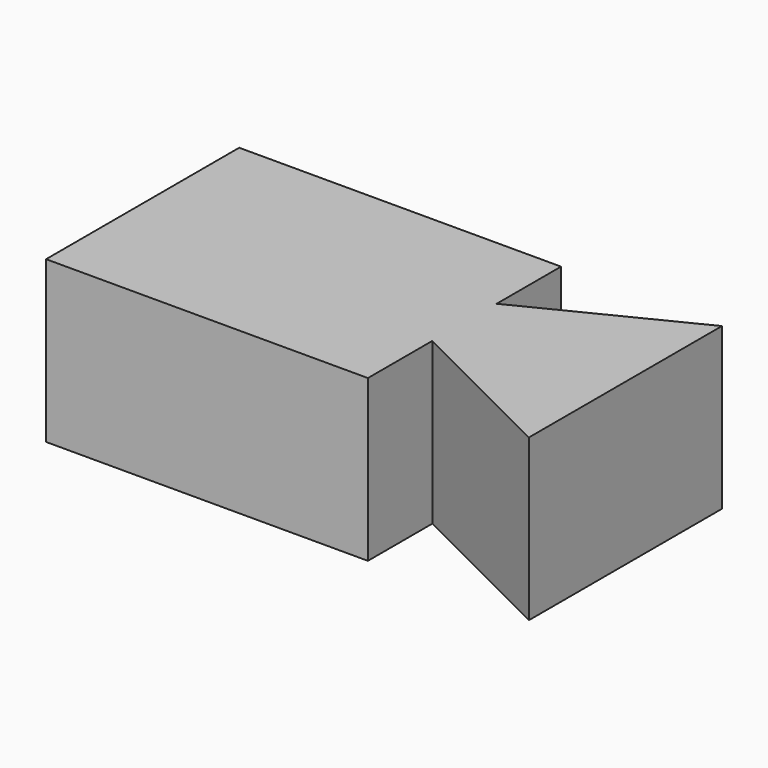
from build123d import *

# Parameters (mm, degrees)
F1_DEPTH = 25.4
F2_DEPTH = 50.8


with BuildPart() as f1:
    # F0 (on Top) → F1 (new body)
    with BuildSketch(Plane.XY):
        Polygon((82.166834, 18.702962), (31.366834, -6.697038), (31.366834, -32.097038), (82.166834, -57.497038), align=None)
    extrude(amount=F1_DEPTH)

    # F0 (on Top) → F2 (join)
    with BuildSketch(Plane.XY):
        Polygon((31.366834, 18.702962), (-70.233166, 18.702962), (-70.233166, -57.497038), (31.366834, -57.497038), (31.366834, -32.097038), (31.366834, -6.697038), align=None)
        Polygon((82.166834, 18.702962), (31.366834, -6.697038), (31.366834, -32.097038), (82.166834, -57.497038), align=None)
    extrude(amount=F2_DEPTH)


solid = f1.part
